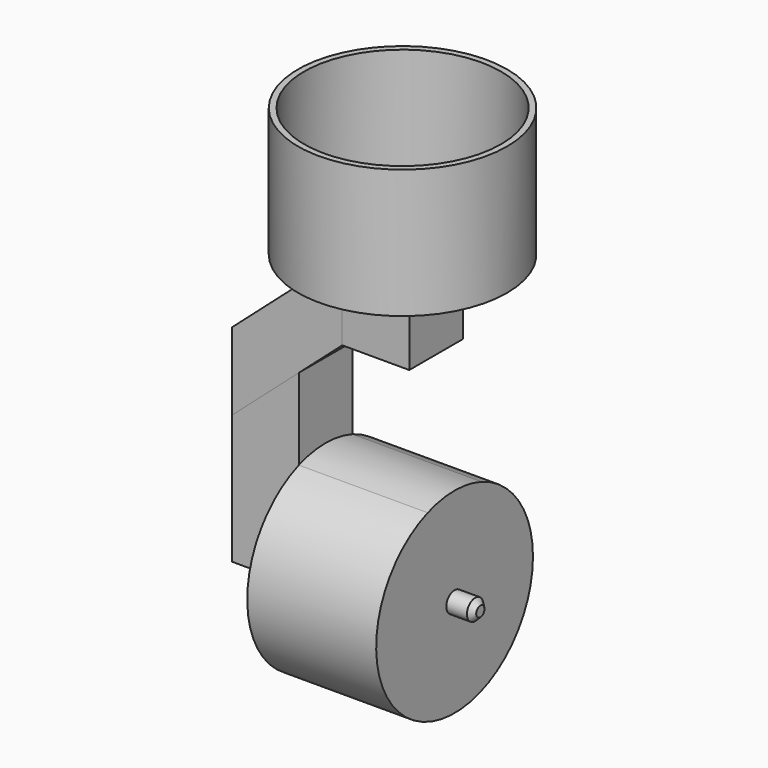
from build123d import *

# Parameters (mm, degrees)
F0_R      = 19.1
F0_R_2    = 2
F1_DEPTH  = 2.5
F0_R_3    = 20.2700767199
F2_DEPTH  = 25
F3_W      = 13
F3_H      = 13
F3_R      = 2
F4_DEPTH  = 15
F6_DEPTH  = 13
F8_DEPTH  = 13
F10_DEPTH = 25
F11_R     = 2
F12_DEPTH = 5
F13_SIZE  = 1


with BuildPart() as f1:
    # F0 (on Top) → F1 (new body)
    with BuildSketch(Plane.XY):
        Circle(F0_R)
        Circle(F0_R_2, mode=Mode.SUBTRACT)
    extrude(amount=F1_DEPTH)

    # F0 (on Top) → F2 (join)
    with BuildSketch(Plane.XY):
        Circle(F0_R_3)
        Circle(F0_R, mode=Mode.SUBTRACT)
    extrude(amount=F2_DEPTH)

    # F3 (on face) → F4 (join)
    with BuildSketch(Plane(origin=(0, 0, 0), x_dir=(1, 0, 0), z_dir=(0, 0, -1))):
        Rectangle(F3_W, F3_H)
        Circle(F3_R, mode=Mode.SUBTRACT)
        Circle(F3_R)
    extrude(amount=F4_DEPTH)


with BuildPart() as f6:
    # F5 (on face) → F6 (new body)
    with BuildSketch(Plane.XZ.offset(6.5)):
        Polygon((-27.918882668, -33.9136943221), (-6.5, -15), (-6.5, 0), (-27.918882668, -18.9136943221), align=None)
    extrude(amount=-F6_DEPTH)


with BuildPart() as f8:
    # F7 (on face) → F8 (new body)
    with BuildSketch(Plane.XZ.offset(6.5)):
        Polygon((-14.9189417037, -22.434248199), (-27.918882668, -33.9136943221), (-27.918882668, -58.8950701058), (-14.9189417037, -58.934248199), align=None)
    extrude(amount=-F8_DEPTH)

    # F9 (on face) → F10 (join)
    with BuildSketch(Plane.YZ.offset(-14.9189417037)):
        with BuildLine():
            ThreePointArc((-6.5, -38.1983633317), (-10.8972473589, -71.6163168193), (19, -56.0519344031))
            ThreePointArc((19, -56.0519344031), (15.5643824163, -45.1546870442), (6.5, -38.1983633317))
            Line((6.5, -38.1983633317), (6.5, -58.934248199))
            Line((6.5, -58.934248199), (-6.5, -58.934248199))
            Line((-6.5, -58.934248199), (-6.5, -38.1983633317))
        make_face()
        with BuildLine():
            Line((6.5, -58.934248199), (6.5, -38.1983633317))
            ThreePointArc((6.5, -38.1983633317), (0, -37.0519344031), (-6.5, -38.1983633317))
            Line((-6.5, -38.1983633317), (-6.5, -58.934248199))
            Line((-6.5, -58.934248199), (6.5, -58.934248199))
        make_face()
    extrude(amount=F10_DEPTH)

    # F11 (on face) → F12 (join)
    with BuildSketch(Plane.YZ.offset(10.0810582963)):
        with Locations((0, -56.0519344031)):
            Circle(F11_R)
        with Locations((0, -56.0519344031)):
            Circle(F11_R)
    extrude(amount=F12_DEPTH)

    # F13
    f13_edges = [f8.edges().sort_by_distance(p)[0] for p in [
        (15.081058, -2, -56.051934),
    ]]
    chamfer(f13_edges, length=F13_SIZE)


solid = Compound([f1.part, f6.part, f8.part])
